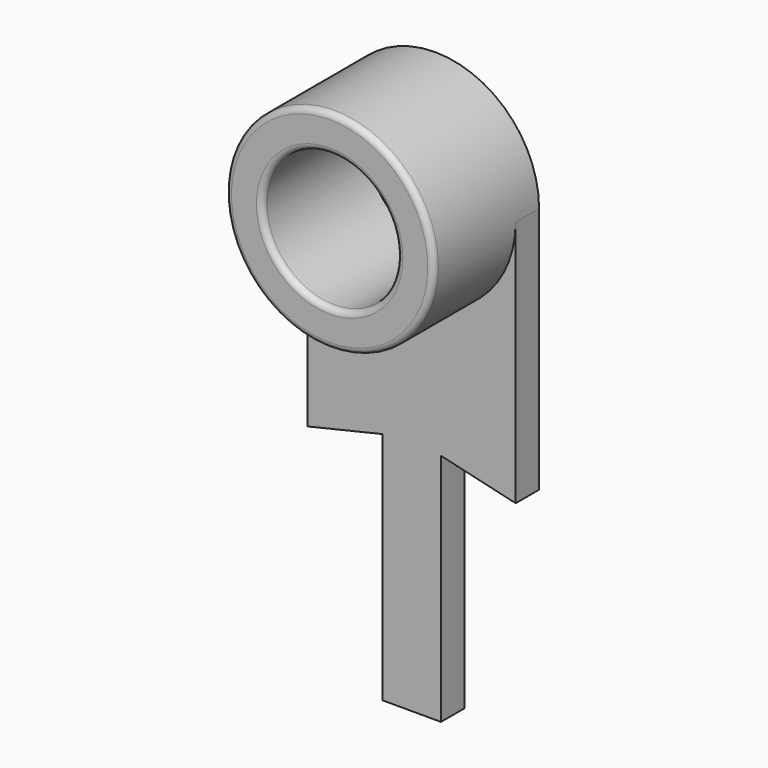
from build123d import *

# Parameters (mm, degrees)
SKETCH005_R   = 1.15
PAD004_DEPTH  = 0.5
SKETCH006_R   = 1.775
SKETCH006_R_2 = 1.15
PAD005_DEPTH  = 1.75
FILLET002_R   = 0.1


with BuildPart() as part:
    # Sketch005 → Pad004 (new body)
    with BuildSketch(Plane.XZ):
        with BuildLine():
            Line((1.775, 0), (1.775, -4.225))
            Line((1.775, -4.225), (0.5, -3.925))
            Line((0.5, -3.925), (0.5, -7.925))
            Line((0.5, -7.925), (-0.5, -7.925))
            Line((-0.5, -7.925), (-0.5, -3.925))
            Line((-0.5, -3.925), (-1.775, -4.225))
            Line((-1.775, -4.225), (-1.775, 0))
            ThreePointArc((1.775, 0), (0, 1.775), (-1.775, 0))
        make_face()
        Circle(SKETCH005_R, mode=Mode.SUBTRACT)
    extrude(amount=PAD004_DEPTH)

    # Sketch006 (on Face11 of Pad004) → Pad005 (join)
    with BuildSketch(Plane.XZ.offset(0.5)):
        Circle(SKETCH006_R)
        Circle(SKETCH006_R_2, mode=Mode.SUBTRACT)
    extrude(amount=PAD005_DEPTH)

    # Fillet002
    fillet002_edges = [part.edges().sort_by_distance(p)[0] for p in [
        (-1.775, -2.25, 0),
        (-1.15, -2.25, 0),
    ]]
    fillet(fillet002_edges, radius=FILLET002_R)


with BuildPart() as part_1:
    # Body003 placement: moved
    add(part.part.moved(Location((0, 0.5, -8))))


solid = part_1.part
